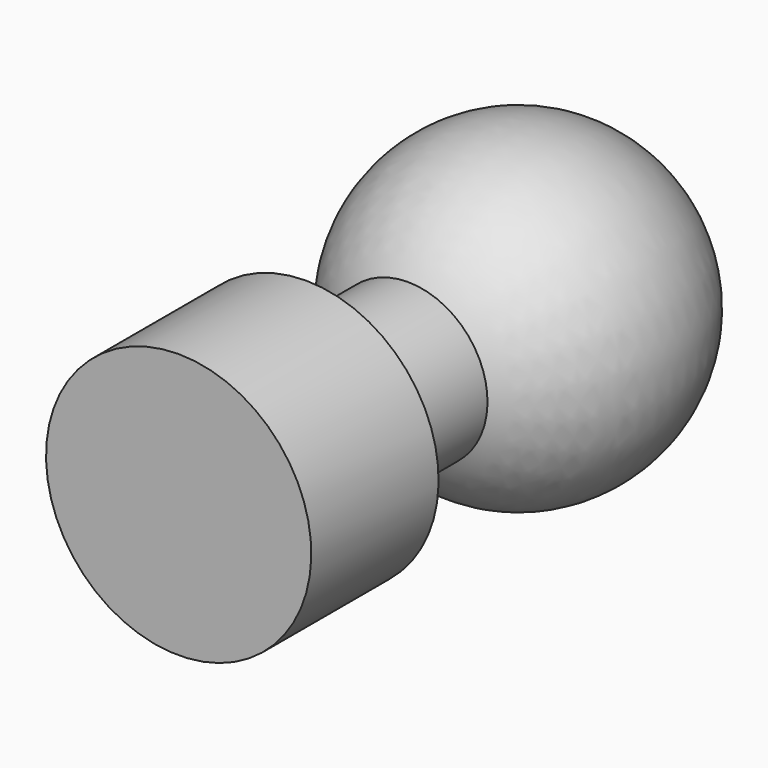
from build123d import *


with BuildPart() as f1:
    # F0 (on Right) → F1 (revolve)
    with BuildSketch(Plane.YZ):
        with BuildLine():
            Line((-5.5, 0), (5.5, 0))
            ThreePointArc((5.5, 0), (3.276457, 2.897777), (-0.098076, 1.5))
            Line((-0.098076, 1.5), (-2.5, 1.5))
            Line((-2.5, 1.5), (-2.5, 2.5))
            Line((-2.5, 2.5), (-5.5, 2.5))
            Line((-5.5, 2.5), (-5.5, 0))
        make_face()
    revolve(axis=Axis((0, 0, 0), (0, -1, 0)))


solid = f1.part
